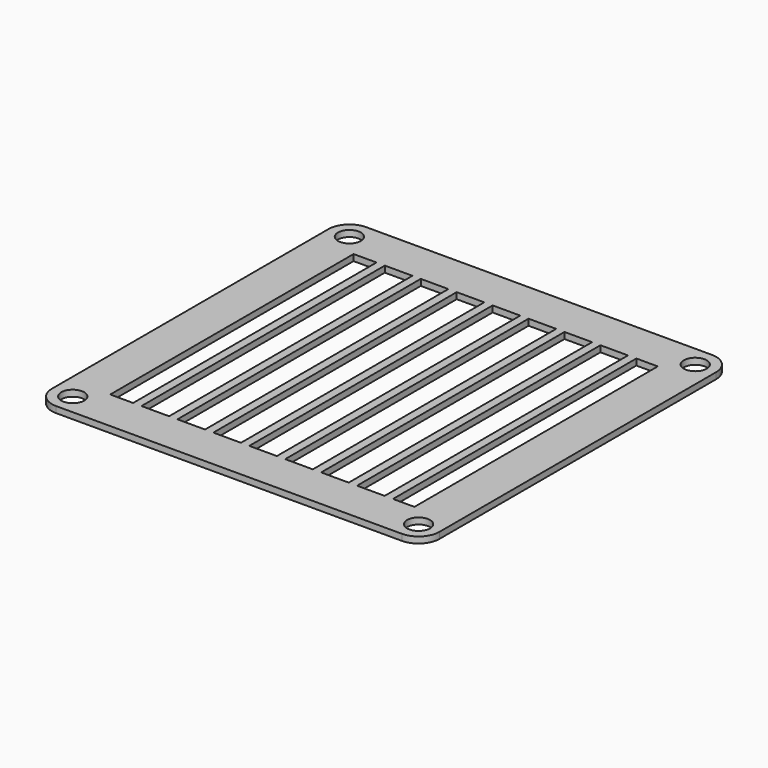
from build123d import *

# Parameters (mm, degrees)
F0_W     = 93
F0_H     = 93
F0_R     = 2.75
F0_W_2   = 2
F0_H_2   = 73
F1_DEPTH = 1.5
F2_R     = 5


with BuildPart() as f1:
    # F0 (on Top) → F1 (new body)
    with BuildSketch(Plane.XY):
        with Locations((4.777365, 65.356966)):
            Rectangle(F0_W, F0_H)
        with Locations((-36.722635, 23.856966)):
            Circle(F0_R, mode=Mode.SUBTRACT)
        with Locations((46.277365, 23.856966)):
            Circle(F0_R, mode=Mode.SUBTRACT)
        Polygon((-31.722635, 28.856966), (-31.722635, 101.856966), (-26.222635, 101.856966), (-24.222635, 101.856966), (-17.599812, 101.856966), (-15.599812, 101.856966), (-8.976989, 101.856966), (-6.976989, 101.856966), (-0.354166, 101.856966), (1.645834, 101.856966), (8.268656, 101.856966), (10.268656, 101.856966), (16.891479, 101.856966), (18.891479, 101.856966), (25.514302, 101.856966), (27.514302, 101.856966), (34.137125, 101.856966), (36.137125, 101.856966), (41.277365, 101.856966), (41.277365, 28.856966), (36.137125, 28.856966), (34.137125, 28.856966), (27.514302, 28.856966), (25.514302, 28.856966), (18.891479, 28.856966), (16.891479, 28.856966), (10.268656, 28.856966), (8.268656, 28.856966), (1.645834, 28.856966), (-0.354166, 28.856966), (-6.976989, 28.856966), (-8.976989, 28.856966), (-15.599812, 28.856966), (-17.599812, 28.856966), (-24.222635, 28.856966), (-26.222635, 28.856966), align=None, mode=Mode.SUBTRACT)
        with Locations((-36.722635, 106.856966)):
            Circle(F0_R, mode=Mode.SUBTRACT)
        with Locations((46.277365, 106.856966)):
            Circle(F0_R, mode=Mode.SUBTRACT)
        with Locations((-25.222635, 65.356966)):
            Rectangle(F0_W_2, F0_H_2)
        with Locations((-16.599812, 65.356966)):
            Rectangle(F0_W_2, F0_H_2)
        with Locations((-7.976989, 65.356966)):
            Rectangle(F0_W_2, F0_H_2)
        with Locations((0.645834, 65.356966)):
            Rectangle(F0_W_2, F0_H_2)
        with Locations((9.268656, 65.356966)):
            Rectangle(F0_W_2, F0_H_2)
        with Locations((17.891479, 65.356966)):
            Rectangle(F0_W_2, F0_H_2)
        with Locations((26.514302, 65.356966)):
            Rectangle(F0_W_2, F0_H_2)
        with Locations((35.137125, 65.356966)):
            Rectangle(F0_W_2, F0_H_2)
    extrude(amount=F1_DEPTH)

    # F2
    f2_edges = [f1.edges().sort_by_distance(p)[0] for p in [
        (-41.722635, 111.856966, 0.75),
        (51.277365, 111.856966, 0.75),
        (51.277365, 18.856966, 0.75),
        (-41.722635, 18.856966, 0.75),
    ]]
    fillet(f2_edges, radius=F2_R)


solid = f1.part
